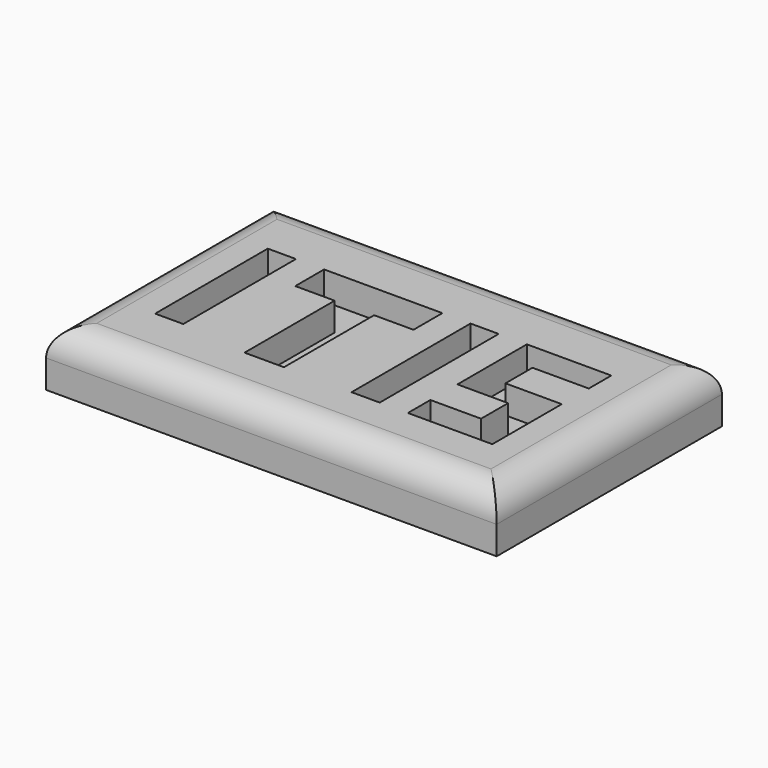
from build123d import *

# Parameters (mm, degrees)
F0_W     = 80
F0_H     = 50
F1_DEPTH = 10
F2_W     = 5
F2_H     = 25
F2_H_2   = 26.404956
F3_DEPTH = 5
F4_R     = 5


with BuildPart() as f1:
    # F0 (on Top) → F1 (new body)
    with BuildSketch(Plane.XY):
        with Locations((40, 25)):
            Rectangle(F0_W, F0_H)
    extrude(amount=F1_DEPTH)

    # F2 (on face) → F3 (cut)
    with BuildSketch(Plane.XY.offset(10)):
        with Locations((12, 24.827586)):
            Rectangle(F2_W, F2_H)
        Polygon((26.5, 30.92263), (26.5, 10.92263), (33.5, 10.92263), (33.5, 30.92263), (40.5, 30.92263), (40.5, 37.327586), (19.5, 37.327586), (19.5, 30.92263), align=None)
        with Locations((48, 24.125108)):
            Rectangle(F2_W, F2_H_2)
        Polygon((70.5, 32.327586), (70.5, 37.327586), (55.5, 37.327586), (55.5, 21.92263), (64.5, 21.92263), (64.5, 15.92263), (55.5, 15.92263), (55.5, 10.92263), (70.5, 10.92263), (70.5, 26.327586), (60.5, 26.327586), (60.5, 32.327586), align=None)
    extrude(amount=-F3_DEPTH, mode=Mode.SUBTRACT)

    # F4
    f4_edges = [f1.edges().sort_by_distance(p)[0] for p in [
        (0, 25, 10),
        (40, 0, 10),
        (80, 25, 10),
        (40, 50, 10),
    ]]
    fillet(f4_edges, radius=F4_R)


solid = f1.part
